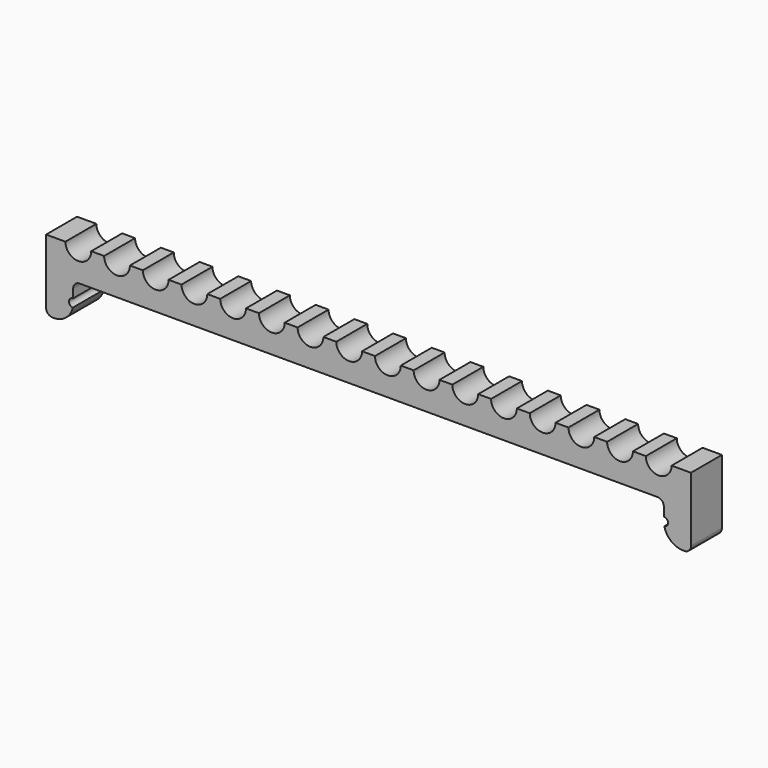
from build123d import *

# Parameters (mm, degrees)
F1_DEPTH = 5
F3_DEPTH = 25


with BuildPart() as f1:
    # F0 (on Front) → F1 (new body)
    with BuildSketch(Plane.XZ):
        with BuildLine():
            ThreePointArc((0, 5), (1.464466, 1.464466), (5, 0))
            Line((5, 0), (6, 0))
            ThreePointArc((6, 0), (15.395129, 3.306774), (20.647917, 11.769127))
            ThreePointArc((20.647917, 11.769127), (17.754785, 15.176301), (21, 18.25))
            Line((21, 18.25), (21, 25))
            ThreePointArc((21, 25), (22.464466, 28.535534), (26, 30))
            Line((26, 30), (474, 30))
            ThreePointArc((474, 30), (477.535534, 28.535534), (479, 25))
            Line((479, 25), (479, 18.25))
            ThreePointArc((479, 18.25), (482.245215, 15.176301), (479.352083, 11.769127))
            ThreePointArc((479.352083, 11.769127), (484.604871, 3.306774), (494, 0))
            Line((494, 0), (495, 0))
            ThreePointArc((495, 0), (498.535534, 1.464466), (500, 5))
            Line((500, 5), (500, 55))
            Line((500, 55), (485, 55))
            ThreePointArc((485, 55), (475, 45), (465, 55))
            Line((465, 55), (455, 55))
            ThreePointArc((455, 55), (445, 45), (435, 55))
            Line((435, 55), (425, 55))
            ThreePointArc((425, 55), (415, 45), (405, 55))
            Line((405, 55), (395, 55))
            ThreePointArc((395, 55), (385, 45), (375, 55))
            Line((375, 55), (365, 55))
            ThreePointArc((365, 55), (355, 45), (345, 55))
            Line((345, 55), (335, 55))
            ThreePointArc((335, 55), (325, 45), (315, 55))
            Line((315, 55), (305, 55))
            ThreePointArc((305, 55), (295, 45), (285, 55))
            Line((285, 55), (275, 55))
            ThreePointArc((275, 55), (265, 45), (255, 55))
            Line((255, 55), (245, 55))
            ThreePointArc((245, 55), (235, 45), (225, 55))
            Line((225, 55), (215, 55))
            ThreePointArc((215, 55), (205, 45), (195, 55))
            Line((195, 55), (185, 55))
            ThreePointArc((185, 55), (175, 45), (165, 55))
            Line((165, 55), (155, 55))
            ThreePointArc((155, 55), (145, 45), (135, 55))
            Line((135, 55), (125, 55))
            ThreePointArc((125, 55), (115, 45), (105, 55))
            Line((105, 55), (95, 55))
            ThreePointArc((95, 55), (85, 45), (75, 55))
            Line((75, 55), (65, 55))
            ThreePointArc((65, 55), (55, 45), (45, 55))
            Line((45, 55), (35, 55))
            ThreePointArc((35, 55), (25, 45), (15, 55))
            Line((15, 55), (0, 55))
            Line((0, 55), (0, 5))
        make_face()
    extrude(amount=F1_DEPTH)

    # F2 (on face) → F3 (join)
    with BuildSketch(Plane(origin=(0, 0, 0), x_dir=(-1, 0, 0), z_dir=(0, 1, 0))):
        with BuildLine():
            ThreePointArc((-500, 5), (-498.535534, 1.464466), (-495, 0))
            Line((-495, 0), (-494, 0))
            ThreePointArc((-494, 0), (-484.604871, 3.306774), (-479.352083, 11.769127))
            ThreePointArc((-479.352083, 11.769127), (-482.245215, 15.176301), (-479, 18.25))
            Line((-479, 18.25), (-479, 25))
            ThreePointArc((-479, 25), (-477.535534, 28.535534), (-474, 30))
            Line((-474, 30), (-26, 30))
            ThreePointArc((-26, 30), (-22.464466, 28.535534), (-21, 25))
            Line((-21, 25), (-21, 18.25))
            ThreePointArc((-21, 18.25), (-17.754785, 15.176301), (-20.647917, 11.769127))
            ThreePointArc((-20.647917, 11.769127), (-15.395129, 3.306774), (-6, 0))
            Line((-6, 0), (-5, 0))
            ThreePointArc((-5, 0), (-1.464466, 1.464466), (0, 5))
            Line((0, 5), (0, 55))
            Line((0, 55), (-15, 55))
            ThreePointArc((-15, 55), (-25, 45), (-35, 55))
            Line((-35, 55), (-45, 55))
            ThreePointArc((-45, 55), (-55, 45), (-65, 55))
            Line((-65, 55), (-75, 55))
            ThreePointArc((-75, 55), (-85, 45), (-95, 55))
            Line((-95, 55), (-105, 55))
            ThreePointArc((-105, 55), (-115, 45), (-125, 55))
            Line((-125, 55), (-135, 55))
            ThreePointArc((-135, 55), (-145, 45), (-155, 55))
            Line((-155, 55), (-165, 55))
            ThreePointArc((-165, 55), (-175, 45), (-185, 55))
            Line((-185, 55), (-195, 55))
            ThreePointArc((-195, 55), (-205, 45), (-215, 55))
            Line((-215, 55), (-225, 55))
            ThreePointArc((-225, 55), (-235, 45), (-245, 55))
            Line((-245, 55), (-255, 55))
            ThreePointArc((-255, 55), (-265, 45), (-275, 55))
            Line((-275, 55), (-285, 55))
            ThreePointArc((-285, 55), (-295, 45), (-305, 55))
            Line((-305, 55), (-315, 55))
            ThreePointArc((-315, 55), (-325, 45), (-335, 55))
            Line((-335, 55), (-345, 55))
            ThreePointArc((-345, 55), (-355, 45), (-365, 55))
            Line((-365, 55), (-375, 55))
            ThreePointArc((-375, 55), (-385, 45), (-395, 55))
            Line((-395, 55), (-405, 55))
            ThreePointArc((-405, 55), (-415, 45), (-425, 55))
            Line((-425, 55), (-435, 55))
            ThreePointArc((-435, 55), (-445, 45), (-455, 55))
            Line((-455, 55), (-465, 55))
            ThreePointArc((-465, 55), (-475, 45), (-485, 55))
            Line((-485, 55), (-500, 55))
            Line((-500, 55), (-500, 5))
        make_face()
        with BuildLine():
            Line((-343.16784, 52.999999), (-336.83216, 52.999999))
            ThreePointArc((-336.83216, 52.999999), (-325, 42.999999), (-313.16784, 52.999999))
            Line((-313.16784, 52.999999), (-306.83216, 52.999999))
            ThreePointArc((-306.83216, 52.999999), (-295, 42.999999), (-283.16784, 52.999999))
            Line((-283.16784, 52.999999), (-276.83216, 52.999999))
            ThreePointArc((-276.83216, 52.999999), (-265, 42.999999), (-253.16784, 52.999999))
            Line((-253.16784, 52.999999), (-246.83216, 52.999999))
            ThreePointArc((-246.83216, 52.999999), (-235, 42.999999), (-223.16784, 52.999999))
            Line((-223.16784, 52.999999), (-216.83216, 52.999999))
            ThreePointArc((-216.83216, 52.999999), (-205, 42.999999), (-193.16784, 52.999999))
            Line((-193.16784, 52.999999), (-186.83216, 52.999999))
            ThreePointArc((-186.83216, 52.999999), (-175, 42.999999), (-163.16784, 52.999999))
            Line((-163.16784, 52.999999), (-156.83216, 52.999999))
            ThreePointArc((-156.83216, 52.999999), (-145, 42.999999), (-133.16784, 52.999999))
            Line((-133.16784, 52.999999), (-126.83216, 52.999999))
            ThreePointArc((-126.83216, 52.999999), (-115, 42.999999), (-103.16784, 52.999999))
            Line((-103.16784, 52.999999), (-96.83216, 52.999999))
            ThreePointArc((-96.83216, 52.999999), (-85, 42.999999), (-73.16784, 52.999999))
            Line((-73.16784, 52.999999), (-66.83216, 52.999999))
            ThreePointArc((-66.83216, 52.999999), (-55, 42.999999), (-43.16784, 52.999999))
            Line((-43.16784, 52.999999), (-36.83216, 52.999999))
            ThreePointArc((-36.83216, 52.999999), (-25, 42.999999), (-13.16784, 52.999999))
            Line((-13.16784, 52.999999), (-2.000001, 52.999999))
            Line((-2.000001, 52.999999), (-2.000001, 5))
            ThreePointArc((-2.000001, 5), (-2.87868, 2.87868), (-5, 2.000001))
            Line((-5, 2.000001), (-6, 2.000001))
            ThreePointArc((-6, 2.000001), (-13.454792, 4.349833), (-18.214583, 10.549836))
            ThreePointArc((-18.214583, 10.549836), (-15.768605, 15.441606), (-18.999999, 19.854122))
            Line((-18.999999, 19.854122), (-18.999999, 25))
            ThreePointArc((-18.999999, 25), (-21.050252, 29.949748), (-26, 32.000001))
            Line((-26, 32.000001), (-474, 32.000001))
            ThreePointArc((-474, 32.000001), (-478.949748, 29.949748), (-481.000001, 25))
            Line((-481.000001, 25), (-481.000001, 19.854122))
            ThreePointArc((-481.000001, 19.854122), (-484.231395, 15.441606), (-481.785417, 10.549836))
            ThreePointArc((-481.785417, 10.549836), (-486.545208, 4.349833), (-494, 2.000001))
            Line((-494, 2.000001), (-495, 2.000001))
            ThreePointArc((-495, 2.000001), (-497.12132, 2.87868), (-497.999999, 5))
            Line((-497.999999, 5), (-497.999999, 52.999999))
            Line((-497.999999, 52.999999), (-486.83216, 52.999999))
            ThreePointArc((-486.83216, 52.999999), (-475, 42.999999), (-463.16784, 52.999999))
            Line((-463.16784, 52.999999), (-456.83216, 52.999999))
            ThreePointArc((-456.83216, 52.999999), (-445, 42.999999), (-433.16784, 52.999999))
            Line((-433.16784, 52.999999), (-426.83216, 52.999999))
            ThreePointArc((-426.83216, 52.999999), (-415, 42.999999), (-403.16784, 52.999999))
            Line((-403.16784, 52.999999), (-396.83216, 52.999999))
            ThreePointArc((-396.83216, 52.999999), (-385, 42.999999), (-373.16784, 52.999999))
            Line((-373.16784, 52.999999), (-366.83216, 52.999999))
            ThreePointArc((-366.83216, 52.999999), (-355, 42.999999), (-343.16784, 52.999999))
        make_face(mode=Mode.SUBTRACT)
    extrude(amount=F3_DEPTH)


solid = f1.part
